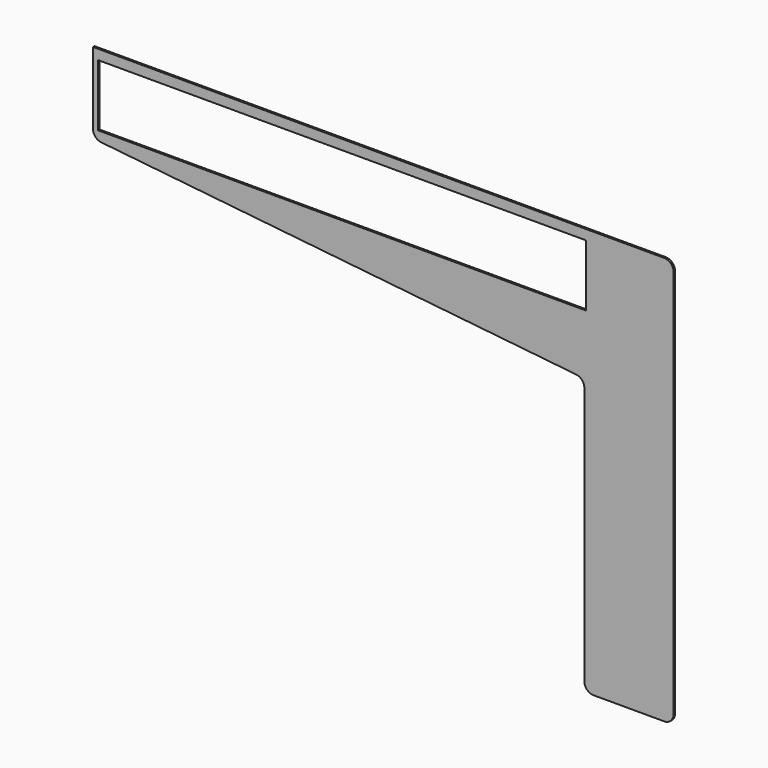
from build123d import *

# Parameters (mm, degrees)
F0_W     = 264.2
F0_H     = 33.5
F1_DEPTH = 1


with BuildPart() as f1:
    # F0 (on Front) → F1 (new body)
    with BuildSketch(Plane.XZ):
        with BuildLine():
            Line((309.6, 0), (0, 0))
            Line((0, 0), (0, -39.093357))
            ThreePointArc((0, -39.093357), (1.284309, -42.439046), (4.477456, -44.065976))
            Line((4.477456, -44.065976), (261.807397, -71.107287))
            ThreePointArc((261.807397, -71.107287), (265.000544, -72.734217), (266.284853, -76.079907))
            Line((266.284853, -76.079907), (266.284853, -216.079907))
            ThreePointArc((266.284853, -216.079907), (267.749319, -219.61544), (271.284853, -221.079907))
            Line((271.284853, -221.079907), (309.6, -221.079907))
            ThreePointArc((309.6, -221.079907), (313.135534, -219.61544), (314.6, -216.079907))
            Line((314.6, -216.079907), (314.6, -5))
            ThreePointArc((314.6, -5), (313.135534, -1.464466), (309.6, 0))
        make_face()
        with Locations((134.935455, -22.140285)):
            Rectangle(F0_W, F0_H, mode=Mode.SUBTRACT)
    extrude(amount=F1_DEPTH)


solid = f1.part
